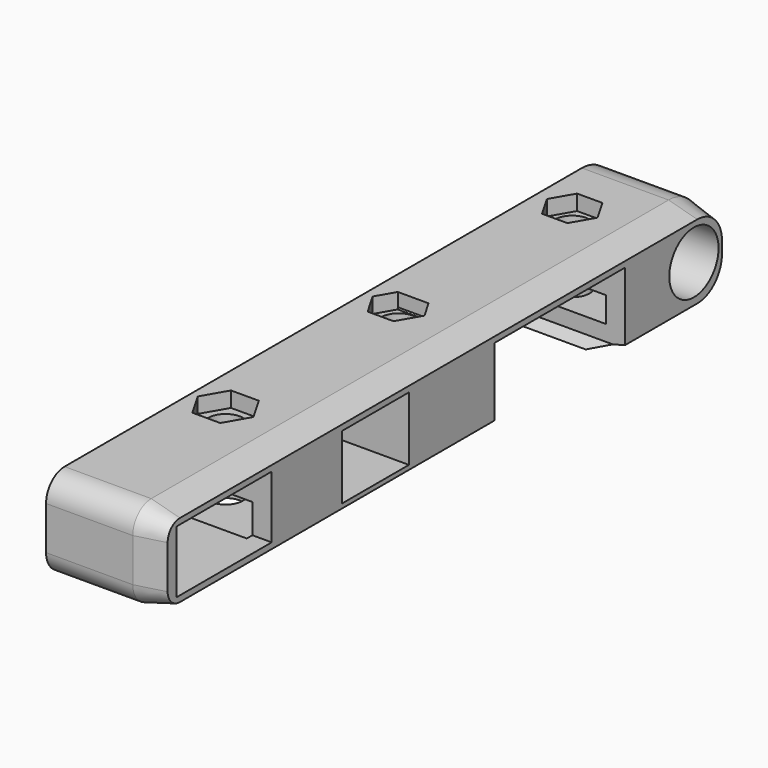
from build123d import *

# Parameters (mm, degrees)
F0_W     = 15.5
F0_H     = 8.1
F0_W_2   = 10.9
F0_H_2   = 8.3
F0_R     = 4
F1_DEPTH = 15
F2_W     = 11.035934
F2_H     = 3.300466
F2_W_2   = 12.273613
F2_H_2   = 3.464567
F2_W_3   = 14.223677
F2_H_3   = 3.989566
F3_DEPTH = 12.5
F4_R     = 2.25
F5_DEPTH = 25
F6_DEPTH = 2
F7_R     = 5
F8_R     = 3
F9_SIZE2 = 3.732051
F9_SIZE  = 1


with BuildPart() as f1:
    # F0 (on Right) → F1 (new body)
    with BuildSketch(Plane.YZ):
        Polygon((42.32502, 23.932349), (42.32502, 35.553029), (-49.718533, 35.553029), (-49.718533, 23.932349), (4.384954, 23.932349), (4.384954, 24.508461), (4.384954, 33.808461), (25.584954, 33.808461), (25.584954, 24.508461), (25.584954, 23.932349), align=None)
        with Locations((-39.568292, 29.758461)):
            Rectangle(F0_W, F0_H, mode=Mode.SUBTRACT)
        with Locations((-14.972494, 29.658461)):
            Rectangle(F0_W_2, F0_H_2, mode=Mode.SUBTRACT)
        with Locations((36.776925, 29.86361)):
            Circle(F0_R, mode=Mode.SUBTRACT)
        Polygon((4.384954, 24.508461), (4.384954, 23.932349), (6.113291, 23.932349), align=None)
        Polygon((23.856617, 23.932349), (25.584954, 23.932349), (25.584954, 24.508461), align=None)
    extrude(amount=-F1_DEPTH)

    # F2 (on face) → F3 (cut)
    with BuildSketch(Plane(origin=(-15, 0, 0), x_dir=(0, -1, 0), z_dir=(-1, 0, 0))):
        with Locations((-29.337391, 28.200673)):
            Rectangle(F2_W, F2_H)
        with Locations((-0.870865, 27.251326)):
            Rectangle(F2_W_2, F2_H_2)
        with Locations((25.624747, 27.518563)):
            Rectangle(F2_W_3, F2_H_3)
    extrude(amount=-F3_DEPTH, mode=Mode.SUBTRACT)

    # F4 (on face) → F5 (cut)
    with BuildSketch(Plane.XY.offset(35.553029)):
        with Locations((-10.227251, 29.789448)):
            Circle(F4_R)
        with Locations((-10.573186, 2.008814)):
            Circle(F4_R)
        with Locations((-10.457753, -26.231565)):
            Circle(F4_R)
    extrude(amount=-F5_DEPTH, mode=Mode.SUBTRACT)

    # F4 (on face) → F6 (cut)
    with BuildSketch(Plane.XY.offset(35.553029)):
        Polygon((-11.870602, 26.94308), (-8.5839, 26.94308), (-6.940549, 29.789448), (-8.5839, 32.635815), (-11.870602, 32.635815), (-13.513953, 29.789448), align=None)
        with Locations((-10.227251, 29.789448)):
            Circle(F4_R, mode=Mode.SUBTRACT)
        Polygon((-12.268482, -29.367838), (-8.647025, -29.367838), (-6.836297, -26.231565), (-8.647025, -23.095291), (-12.268482, -23.095291), (-14.07921, -26.231565), align=None)
        with Locations((-10.457753, -26.231565)):
            Circle(F4_R, mode=Mode.SUBTRACT)
        Polygon((-8.576097, 4.384954), (-12.570275, 4.384954), (-13.94214, 2.008814), (-12.257663, -0.908786), (-8.888709, -0.908786), (-7.204232, 2.008814), align=None)
        with Locations((-10.573186, 2.008814)):
            Circle(F4_R, mode=Mode.SUBTRACT)
    extrude(amount=-F6_DEPTH, mode=Mode.SUBTRACT)

    # F7
    f7_edges = [f1.edges().sort_by_distance(p)[0] for p in [
        (-7.5, 42.32502, 23.932349),
        (-7.5, 42.32502, 35.553029),
    ]]
    fillet(f7_edges, radius=F7_R)

    # F8
    f8_edges = [f1.edges().sort_by_distance(p)[0] for p in [
        (-7.5, -49.718533, 35.553029),
        (-7.5, -49.718533, 23.932349),
    ]]
    fillet(f8_edges, radius=F8_R)

    # F9
    f9_edges = [f1.edges().sort_by_distance(p)[0] for p in [
        (0, -4.696756, 35.553029),
    ]]
    chamfer(f9_edges, length=F9_SIZE, length2=F9_SIZE2)


solid = f1.part
